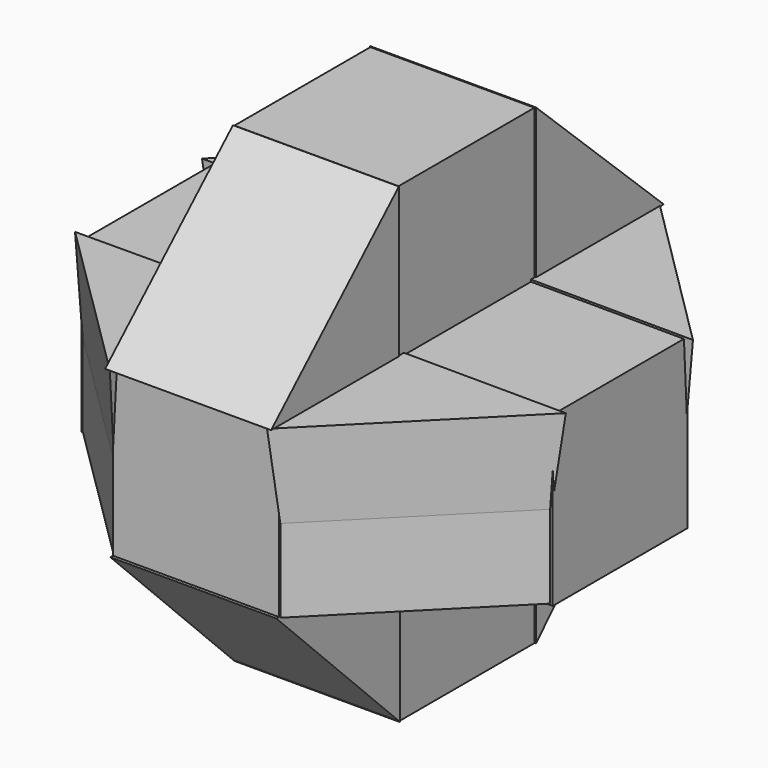
from build123d import *

# Parameters (mm, degrees)
F0_W          = 50.0817559659
F0_H          = 50.0253587961
F2_DEPTH      = 71
F2_DEPTH_BACK = 71
F1_W          = 50.750002265
F1_H          = 50.750002265
F3_DEPTH      = 71
F3_DEPTH_BACK = 71
F4_W          = 49.4375005364
F4_H          = 51.1875003576
F5_DEPTH      = 71
F5_DEPTH_BACK = 71
F7_DEPTH      = 26
F7_TAPER      = -3
F7_DEPTH_BACK = 25
F9_DEPTH      = 25
F9_DEPTH_BACK = 25


with BuildPart() as f2:
    # F0 (on Front) → F2 (new body, two sides)
    with BuildSketch(Plane.XZ) as f2_sk:
        Rectangle(F0_W, F0_H)
    extrude(amount=F2_DEPTH)
    extrude(f2_sk.sketch, amount=-F2_DEPTH_BACK)

    # F1 (on Right) → F3 (join, two sides)
    with BuildSketch(Plane.YZ) as f3_sk:
        Rectangle(F1_W, F1_H)
    extrude(amount=F3_DEPTH)
    extrude(f3_sk.sketch, amount=-F3_DEPTH_BACK)

    # F4 (on Top) → F5 (join, two sides)
    with BuildSketch(Plane.XY) as f5_sk:
        Rectangle(F4_W, F4_H)
    extrude(amount=F5_DEPTH)
    extrude(f5_sk.sketch, amount=-F5_DEPTH_BACK)


with BuildPart() as f7:
    # F6 (on Top) → F7 (new body, two sides)
    with BuildSketch(Plane.XY) as f7_sk:
        Polygon((-25.3750011325, 25.3750011325), (-25.1562502235, 70.4375058413), (-70.8750039339, 25.3750011325), align=None)
    extrude(amount=F7_DEPTH, taper=F7_TAPER)
    extrude(f7_sk.sketch, amount=-F7_DEPTH_BACK)


with BuildPart() as f7b:
    # F6 (on Top) → F7, piece 2 (new body, two sides)
    with BuildSketch(Plane.XY) as f7_2_sk:
        Polygon((24.9428189903, 25.5958499854), (70.4374983907, 25.3750011325), (25.1562520862, 70.4375058413), align=None)
    extrude(amount=F7_DEPTH, taper=F7_TAPER)
    extrude(f7_2_sk.sketch, amount=-F7_DEPTH_BACK)


with BuildPart() as f7c:
    # F6 (on Top) → F7, piece 3 (new body, two sides)
    with BuildSketch(Plane.XY) as f7_3_sk:
        Polygon((25.1562520862, -24.940726669), (25.1562520862, -70.6562548876), (70.4374983907, -25.1562520862), align=None)
    extrude(amount=F7_DEPTH, taper=F7_TAPER)
    extrude(f7_3_sk.sketch, amount=-F7_DEPTH_BACK)


with BuildPart() as f7d:
    # F6 (on Top) → F7, piece 4 (new body, two sides)
    with BuildSketch(Plane.XY) as f7_4_sk:
        Polygon((-25.1562502235, -24.940726669), (-70.8750039339, -25.1562520862), (-25.1562502235, -70.4167821713), align=None)
    extrude(amount=F7_DEPTH, taper=F7_TAPER)
    extrude(f7_4_sk.sketch, amount=-F7_DEPTH_BACK)


with BuildPart() as f9:
    # F8 (on Right) → F9 (new body, two sides)
    with BuildSketch(Plane.YZ) as f9_sk:
        Polygon((-25.8125010878, 26.0312519968), (-25.8125010878, 71.0937529802), (-73.9375054836, 26.0312519968), align=None)
    extrude(amount=F9_DEPTH)
    extrude(f9_sk.sketch, amount=-F9_DEPTH_BACK)


with BuildPart() as f9b:
    # F8 (on Right) → F9, piece 2 (new body, two sides)
    with BuildSketch(Plane.YZ) as f9_2_sk:
        Polygon((73.9375054836, 25.8125010878), (25.8124992251, 71.0937529802), (25.8124992251, 25.8125010878), align=None)
    extrude(amount=F9_DEPTH)
    extrude(f9_2_sk.sketch, amount=-F9_DEPTH_BACK)


with BuildPart() as f9c:
    # F8 (on Right) → F9, piece 3 (new body, two sides)
    with BuildSketch(Plane.YZ) as f9_3_sk:
        Polygon((-71.9687566161, -24.7187502682), (-25.3750011325, -71.0937529802), (-25.3750011325, -24.7187502682), align=None)
    extrude(amount=F9_DEPTH)
    extrude(f9_3_sk.sketch, amount=-F9_DEPTH_BACK)


with BuildPart() as f9d:
    # F8 (on Right) → F9, piece 4 (new body, two sides)
    with BuildSketch(Plane.YZ) as f9_4_sk:
        Polygon((25.8124992251, -71.0937529802), (71.0937529802, -25.1562520862), (25.8124992251, -25.1562520862), align=None)
    extrude(amount=F9_DEPTH)
    extrude(f9_4_sk.sketch, amount=-F9_DEPTH_BACK)


solid = Compound([f2.part, f7.part, f7b.part, f7c.part, f7d.part, f9.part, f9b.part, f9c.part, f9d.part])
